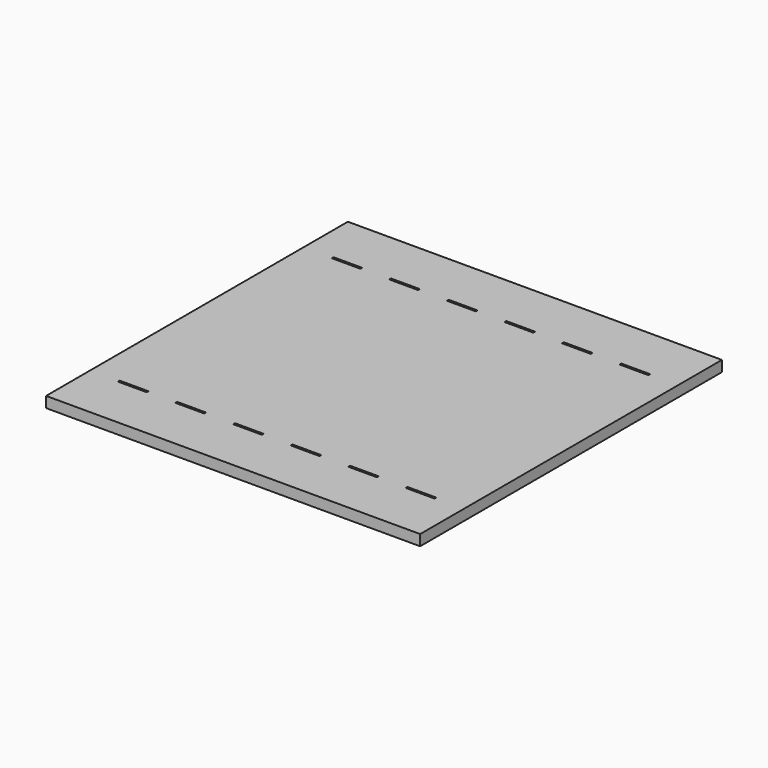
from build123d import *

# Parameters (mm, degrees)
F0_W     = 88.1634
F0_H     = 88.9
F0_W_2   = 6.7818
F0_H_2   = 0.508
F1_DEPTH = 2.54


with BuildPart() as f1:
    # F0 (on Top) → F1 (new body)
    with BuildSketch(Plane.XY):
        with Locations((44.0817, -44.45)):
            Rectangle(F0_W, F0_H)
        with Locations((10.1727, -75.946)):
            Rectangle(F0_W_2, F0_H_2, mode=Mode.SUBTRACT)
        with Locations((23.7363, -75.946)):
            Rectangle(F0_W_2, F0_H_2, mode=Mode.SUBTRACT)
        with Locations((37.3253, -75.946)):
            Rectangle(F0_W_2, F0_H_2, mode=Mode.SUBTRACT)
        with Locations((50.8889, -75.946)):
            Rectangle(F0_W_2, F0_H_2, mode=Mode.SUBTRACT)
        with Locations((64.4525, -75.946)):
            Rectangle(F0_W_2, F0_H_2, mode=Mode.SUBTRACT)
        with Locations((78.0161, -75.946)):
            Rectangle(F0_W_2, F0_H_2, mode=Mode.SUBTRACT)
        with Locations((10.1727, -12.954)):
            Rectangle(F0_W_2, F0_H_2, mode=Mode.SUBTRACT)
        with Locations((23.7363, -12.954)):
            Rectangle(F0_W_2, F0_H_2, mode=Mode.SUBTRACT)
        with Locations((37.3253, -12.954)):
            Rectangle(F0_W_2, F0_H_2, mode=Mode.SUBTRACT)
        with Locations((50.8889, -12.954)):
            Rectangle(F0_W_2, F0_H_2, mode=Mode.SUBTRACT)
        with Locations((64.4525, -12.954)):
            Rectangle(F0_W_2, F0_H_2, mode=Mode.SUBTRACT)
        with Locations((78.0161, -12.954)):
            Rectangle(F0_W_2, F0_H_2, mode=Mode.SUBTRACT)
    extrude(amount=-F1_DEPTH)


solid = f1.part
